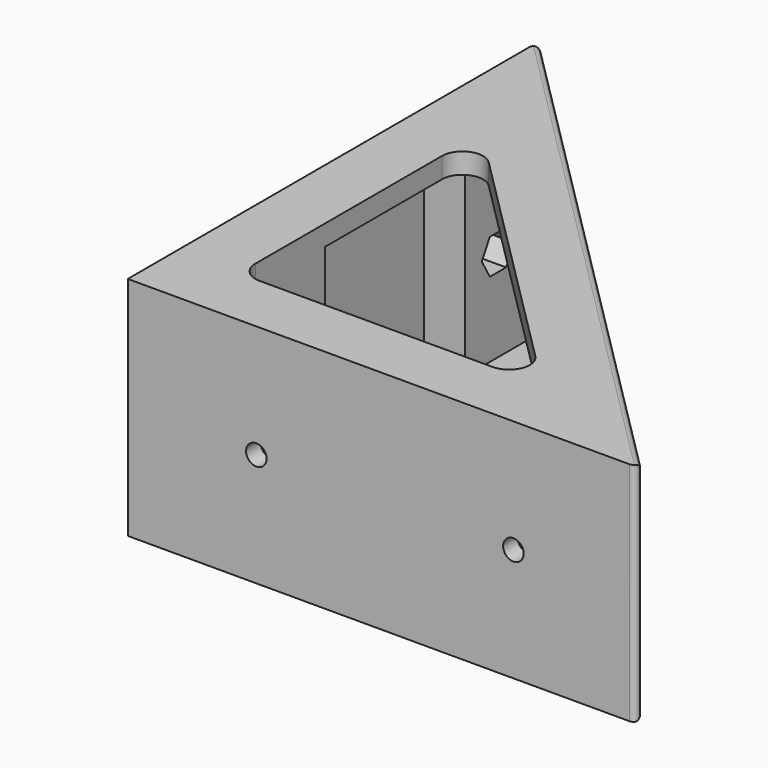
from build123d import *

# Parameters (mm, degrees)
PAD003_DEPTH    = 44
POCKET007_DEPTH = 36
SKETCH025_W     = 12
SKETCH025_H     = 16
SKETCH025_W_2   = 16
SKETCH025_H_2   = 12
PAD004_DEPTH    = 44
SKETCH026_R     = 2
POCKET008_DEPTH = 100
SKETCH027_R     = 6
POCKET009_DEPTH = 100
SKETCH028_R     = 2
POCKET010_DEPTH = 100
POCKET011_DEPTH = 100
FILLET007_R     = 1


with BuildPart() as part:
    # Sketch023 → Pad003 (new body)
    with BuildSketch(Plane.XY):
        Polygon((0, 100), (0, 0), (100, 0), align=None)
        with BuildLine():
            Line((12, 16), (12, 61.372583))
            ThreePointArc((18.828427, 64.20101), (14.469266, 65.068101), (12, 61.372583))
            Line((18.828427, 64.20101), (64.20101, 18.828427))
            ThreePointArc((61.372583, 12), (65.068101, 14.469266), (64.20101, 18.828427))
            Line((16, 12), (61.372583, 12))
            ThreePointArc((12, 16), (13.171573, 13.171573), (16, 12))
        make_face(mode=Mode.SUBTRACT)
    extrude(amount=PAD003_DEPTH)

    # Sketch024 → Pocket007 (cut)
    with BuildSketch(Plane(origin=(-1, 0, 4), x_dir=(1, 0, 0), z_dir=(0, 0, 1))):
        with BuildLine():
            Line((5, 80.686292), (5, 8))
            ThreePointArc((5, 8), (6.171573, 5.171573), (9, 4))
            Line((9, 4), (81.686292, 4))
            ThreePointArc((81.686292, 4), (85.38181, 6.469266), (84.514719, 10.828427))
            Line((84.514719, 10.828427), (11.828427, 83.514719))
            ThreePointArc((11.828427, 83.514719), (7.469266, 84.38181), (5, 80.686292))
        make_face()
    extrude(amount=POCKET007_DEPTH, mode=Mode.SUBTRACT)

    # Sketch025 → Pad004 (join)
    with BuildSketch(Plane.XY):
        with Locations((6, 75)):
            Rectangle(SKETCH025_W, SKETCH025_H)
        with Locations((6, 25)):
            Rectangle(SKETCH025_W, SKETCH025_H)
        with Locations((25, 6)):
            Rectangle(SKETCH025_W_2, SKETCH025_H_2)
        with Locations((75, 6)):
            Rectangle(SKETCH025_W_2, SKETCH025_H_2)
    extrude(amount=PAD004_DEPTH)

    # Sketch026 → Pocket008 (cut)
    with BuildSketch(Plane.XZ):
        with Locations((25, 22)):
            Circle(SKETCH026_R)
        with Locations((75, 22)):
            Circle(SKETCH026_R)
    extrude(amount=-POCKET008_DEPTH, mode=Mode.SUBTRACT)

    # Sketch027 → Pocket009 (cut)
    with BuildSketch(Plane.XZ.offset(-3.529412)):
        with Locations((25, 22)):
            Circle(SKETCH027_R)
        with Locations((75, 22)):
            Circle(SKETCH027_R)
    extrude(amount=-POCKET009_DEPTH, mode=Mode.SUBTRACT)

    # Sketch028 → Pocket010 (cut)
    with BuildSketch(Plane.YZ):
        with Locations((75, 22)):
            Circle(SKETCH028_R)
        with Locations((25, 22)):
            Circle(SKETCH028_R)
    extrude(amount=POCKET010_DEPTH, mode=Mode.SUBTRACT)

    # Sketch029 → Pocket011 (cut)
    with BuildSketch(Plane.YZ.offset(3.529412)):
        Polygon((21.05, 21.999978), (23.025, 18.579178), (26.975, 18.579178), (28.95, 21.999978), (26.975, 25.420778), (23.025, 25.420778), align=None)
        Polygon((76.975, 25.4208), (73.025, 25.4208), (71.05, 22), (73.025, 18.5792), (76.975, 18.5792), (78.95, 22), align=None)
    extrude(amount=POCKET011_DEPTH, mode=Mode.SUBTRACT)

    # Fillet007
    fillet007_edges = [part.edges().sort_by_distance(p)[0] for p in [
        (50, 50, 44),
        (50, 50, 0),
        (100, 0, 22),
        (0, 100, 22),
    ]]
    fillet(fillet007_edges, radius=FILLET007_R)


solid = part.part
